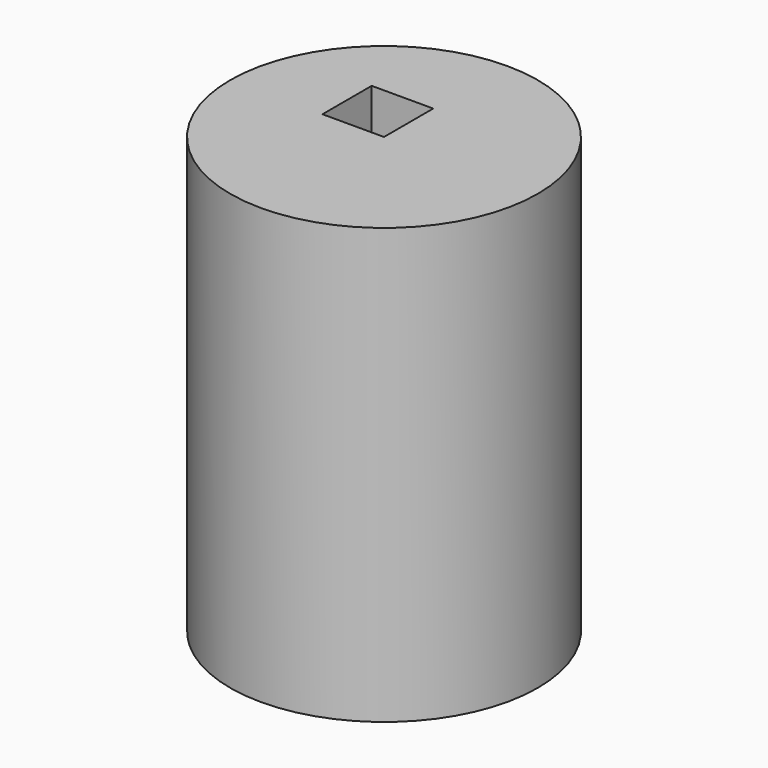
from build123d import *

# Parameters (mm, degrees)
F0_R     = 500
F1_DEPTH = 1413.544893
F2_W     = 200
F2_H     = 200
F3_DEPTH = 2812.250853


with BuildPart() as f1:
    # F0 (on Top) → F1 (new body)
    with BuildSketch(Plane.XY):
        Circle(F0_R)
    extrude(amount=F1_DEPTH)

    # F2 (on face) → F3 (cut)
    with BuildSketch(Plane.XY.offset(1413.544893)):
        with Locations((-100, 100)):
            Rectangle(F2_W, F2_H)
    extrude(amount=-F3_DEPTH, mode=Mode.SUBTRACT)


solid = f1.part
